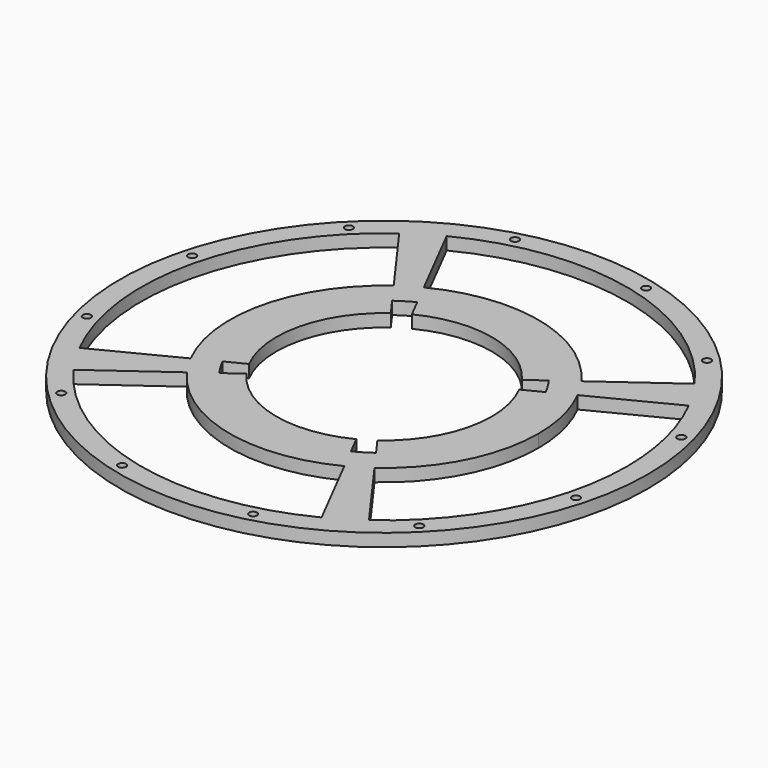
from build123d import *

# Parameters (mm, degrees)
F0_R     = 62.5
F0_R_2   = 0.95
F1_DEPTH = 3


with BuildPart() as f1:
    # F0 (on Top) → F1 (new body)
    with BuildSketch(Plane.XY):
        with Locations((-11.4963501692, 27.9728826135)):
            Circle(F0_R)
        with Locations((-54.0467362732, -14.4027499996)):
            Circle(F0_R_2, mode=Mode.SUBTRACT)
        with Locations((-27.1582491696, -30.0006847829)):
            Circle(F0_R_2, mode=Mode.SUBTRACT)
        with Locations((-69.5338817827, 12.5497013212)):
            Circle(F0_R_2, mode=Mode.SUBTRACT)
        with Locations((3.9268311232, -30.064649)):
            Circle(F0_R_2, mode=Mode.SUBTRACT)
        with Locations((30.8792824439, -14.5775034905)):
            Circle(F0_R_2, mode=Mode.SUBTRACT)
        with Locations((46.4772172272, 12.3109836131)):
            Circle(F0_R_2, mode=Mode.SUBTRACT)
        with Locations((-69.4699175656, 43.6347816139)):
            Circle(F0_R_2, mode=Mode.SUBTRACT)
        with Locations((-53.8719827823, 70.5232687176)):
            Circle(F0_R_2, mode=Mode.SUBTRACT)
        with Locations((-26.9195314615, 86.010414227)):
            Circle(F0_R_2, mode=Mode.SUBTRACT)
        with BuildLine():
            ThreePointArc((35.0970928529, 61.6671116053), (37.5498519583, 57.9848811619), (39.7122301293, 54.1249629097))
            ThreePointArc((39.7122301293, 54.1249629097), (44.4086736085, 41.4219835656), (46.0036498308, 27.9728826135))
            ThreePointArc((46.0036498308, 27.9728826135), (39.707498158, 1.8115386785), (22.1978788226, -18.6205604085))
            ThreePointArc((22.1978788226, -18.6205604085), (18.5156483792, -21.073319514), (14.655730127, -23.2356976849))
            ThreePointArc((14.655730127, -23.2356976849), (-24.9555645945, -27.9297071928), (-58.0897931912, -5.7213463782))
            ThreePointArc((-58.0897931912, -5.7213463782), (-60.5425522967, -2.0391159348), (-62.7049304676, 1.8208023173))
            ThreePointArc((-62.7049304676, 1.8208023173), (-67.3989399755, 41.4320970388), (-45.190579161, 74.5663256356))
            ThreePointArc((-45.190579161, 74.5663256356), (-41.5083487176, 77.019084741), (-37.6484304654, 79.181462912))
            ThreePointArc((-37.6484304654, 79.181462912), (1.9628642561, 83.8754724199), (35.0970928529, 61.6671116053))
        make_face(mode=Mode.SUBTRACT)
        with Locations((46.5411814443, 43.3960639059)):
            Circle(F0_R_2, mode=Mode.SUBTRACT)
        with Locations((4.1655488312, 85.9464500099)):
            Circle(F0_R_2, mode=Mode.SUBTRACT)
        with Locations((31.0540359349, 70.3485152266)):
            Circle(F0_R_2, mode=Mode.SUBTRACT)
        with BuildLine():
            ThreePointArc((-23.0942292571, 50.6827747459), (-5.5274811632, 52.764465919), (9.1668289102, 42.9155406882))
            Line((9.1668289102, 42.9155406882), (13.2184326512, 45.845473644))
            ThreePointArc((13.2184326512, 45.845473644), (-4.3571146914, 57.6255606847), (-25.3683231959, 55.1356947718))
            Line((-25.3683231959, 55.1356947718), (-23.0942292571, 50.6827747459))
        make_face()
        with BuildLine():
            ThreePointArc((-34.2062423015, 16.3750035257), (-36.2879334746, 33.9417516195), (-26.4390082438, 48.6360616929))
            Line((-26.4390082438, 48.6360616929), (-29.3689411996, 52.6876654339))
            ThreePointArc((-29.3689411996, 52.6876654339), (-41.1490282404, 35.1121180913), (-38.6591623275, 14.1009095869))
            Line((-38.6591623275, 14.1009095869), (-34.2062423015, 16.3750035257))
        make_face()
        with BuildLine():
            Line((2.3756228575, 0.8100704552), (0.1015289187, 5.2629904812))
            ThreePointArc((0.1015289187, 5.2629904812), (-17.4652191752, 3.1812993081), (-32.1595292485, 13.0302245389))
            Line((-32.1595292485, 13.0302245389), (-36.2111329896, 10.1002915831))
            ThreePointArc((-36.2111329896, 10.1002915831), (-18.6355856469, -1.6797954576), (2.3756228575, 0.8100704552))
        make_face()
        with BuildLine():
            ThreePointArc((11.2135419632, 39.5707617014), (13.2963125496, 33.937266514), (14.0036498308, 27.9728826135))
            ThreePointArc((14.0036498308, 27.9728826135), (11.2114434368, 16.3708953032), (3.4463079054, 7.3097035342))
            Line((3.4463079054, 7.3097035342), (6.3762408612, 3.2580997931))
            ThreePointArc((6.3762408612, 3.2580997931), (15.663951987, 14.0959958306), (19.0036498308, 27.9728826135))
            ThreePointArc((19.0036498308, 27.9728826135), (18.1576189651, 35.1067535534), (15.6664619891, 41.8448556402))
            Line((15.6664619891, 41.8448556402), (11.2135419632, 39.5707617014))
        make_face()
        with BuildLine():
            ThreePointArc((13.2184326512, 45.845473644), (14.5194613941, 43.8922905392), (15.6664619891, 41.8448556402))
            Line((15.6664619891, 41.8448556402), (21.0287945872, 44.5833840638))
            ThreePointArc((21.0287945872, 44.5833840638), (19.6553594594, 47.0350122708), (18.097488796, 49.3737820141))
            Line((18.097488796, 49.3737820141), (13.2184326512, 45.845473644))
        make_face()
        with BuildLine():
            ThreePointArc((-29.3689411996, 52.6876654339), (-27.4157580948, 53.9886941768), (-25.3683231959, 55.1356947718))
            Line((-25.3683231959, 55.1356947718), (-28.1068516195, 60.4980273699))
            ThreePointArc((-28.1068516195, 60.4980273699), (-30.5584798265, 59.1245922421), (-32.8972495697, 57.5667215788))
            Line((-32.8972495697, 57.5667215788), (-29.3689411996, 52.6876654339))
        make_face()
        with BuildLine():
            Line((9.9045492314, -1.6209563517), (6.3762408612, 3.2580997931))
            ThreePointArc((6.3762408612, 3.2580997931), (4.4230577565, 1.9570710503), (2.3756228575, 0.8100704552))
            Line((2.3756228575, 0.8100704552), (5.1141512811, -4.5522621428))
            ThreePointArc((5.1141512811, -4.5522621428), (7.5657794881, -3.178827015), (9.9045492314, -1.6209563517))
        make_face()
        with BuildLine():
            Line((-41.0901891344, 6.571983213), (-36.2111329896, 10.1002915831))
            ThreePointArc((-36.2111329896, 10.1002915831), (-37.5121617325, 12.0534746879), (-38.6591623275, 14.1009095869))
            Line((-38.6591623275, 14.1009095869), (-44.0214949255, 11.3623811633))
            ThreePointArc((-44.0214949255, 11.3623811633), (-42.6480597977, 8.9107529563), (-41.0901891344, 6.571983213))
        make_face()
        with BuildLine():
            Line((21.0287945872, 44.5833840638), (15.6664619891, 41.8448556402))
            ThreePointArc((15.6664619891, 41.8448556402), (18.1576189651, 35.1067535534), (19.0036498308, 27.9728826135))
            ThreePointArc((19.0036498308, 27.9728826135), (15.663951987, 14.0959958306), (6.3762408612, 3.2580997931))
            Line((6.3762408612, 3.2580997931), (9.9045492314, -1.6209563517))
            ThreePointArc((9.9045492314, -1.6209563517), (21.0257890743, 11.3564973604), (25.024791651, 27.9728826135))
            ThreePointArc((25.024791651, 27.9728826135), (24.0117420368, 36.5150830175), (21.0287945872, 44.5833840638))
        make_face()
        with BuildLine():
            Line((5.1141512811, -4.5522621428), (2.3756228575, 0.8100704552))
            ThreePointArc((2.3756228575, 0.8100704552), (-18.6355856469, -1.6797954576), (-36.2111329896, 10.1002915831))
            Line((-36.2111329896, 10.1002915831), (-41.0901891344, 6.571983213))
            ThreePointArc((-41.0901891344, 6.571983213), (-20.0449741486, -7.5336636549), (5.1141512811, -4.5522621428))
        make_face()
        with BuildLine():
            ThreePointArc((-38.6591623275, 14.1009095869), (-41.1490282404, 35.1121180913), (-29.3689411996, 52.6876654339))
            Line((-29.3689411996, 52.6876654339), (-32.8972495697, 57.5667215788))
            ThreePointArc((-32.8972495697, 57.5667215788), (-47.0028964376, 36.5215065929), (-44.0214949255, 11.3623811633))
            Line((-44.0214949255, 11.3623811633), (-38.6591623275, 14.1009095869))
        make_face()
        with BuildLine():
            ThreePointArc((-25.3683231959, 55.1356947718), (-4.3571146914, 57.6255606847), (13.2184326512, 45.845473644))
            Line((13.2184326512, 45.845473644), (18.097488796, 49.3737820141))
            ThreePointArc((18.097488796, 49.3737820141), (-2.9477261898, 63.479428882), (-28.1068516195, 60.4980273699))
            Line((-28.1068516195, 60.4980273699), (-25.3683231959, 55.1356947718))
        make_face()
        with BuildLine():
            Line((-58.0897931912, -5.7213463782), (-41.0901891344, 6.571983213))
            ThreePointArc((-41.0901891344, 6.571983213), (-42.6480597977, 8.9107529563), (-44.0214949255, 11.3623811633))
            Line((-44.0214949255, 11.3623811633), (-62.7049304676, 1.8208023173))
            ThreePointArc((-62.7049304676, 1.8208023173), (-60.5425522967, -2.0391159348), (-58.0897931912, -5.7213463782))
        make_face()
        with BuildLine():
            Line((22.1978788226, -18.6205604085), (9.9045492314, -1.6209563517))
            ThreePointArc((9.9045492314, -1.6209563517), (7.5657794881, -3.178827015), (5.1141512811, -4.5522621428))
            Line((5.1141512811, -4.5522621428), (14.655730127, -23.2356976849))
            ThreePointArc((14.655730127, -23.2356976849), (18.5156483792, -21.073319514), (22.1978788226, -18.6205604085))
        make_face()
        with BuildLine():
            ThreePointArc((18.097488796, 49.3737820141), (19.6553594594, 47.0350122708), (21.0287945872, 44.5833840638))
            Line((21.0287945872, 44.5833840638), (39.7122301293, 54.1249629097))
            ThreePointArc((39.7122301293, 54.1249629097), (37.5498519583, 57.9848811619), (35.0970928529, 61.6671116053))
            Line((35.0970928529, 61.6671116053), (18.097488796, 49.3737820141))
        make_face()
        with BuildLine():
            ThreePointArc((-32.8972495697, 57.5667215788), (-30.5584798265, 59.1245922421), (-28.1068516195, 60.4980273699))
            Line((-28.1068516195, 60.4980273699), (-37.6484304654, 79.181462912))
            ThreePointArc((-37.6484304654, 79.181462912), (-41.5083487176, 77.019084741), (-45.190579161, 74.5663256356))
            Line((-45.190579161, 74.5663256356), (-32.8972495697, 57.5667215788))
        make_face()
    extrude(amount=F1_DEPTH)


solid = f1.part
